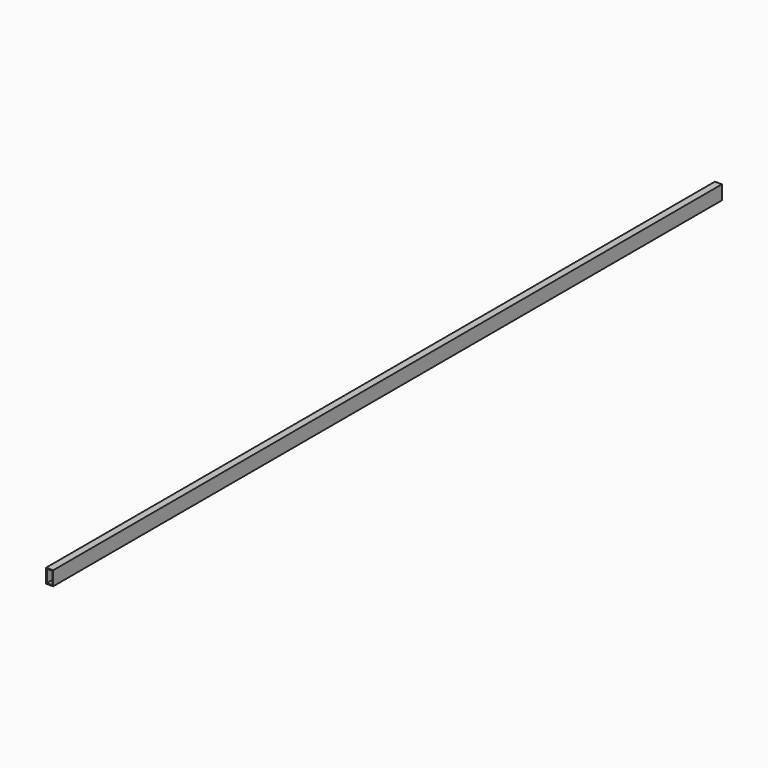
from build123d import *

# Parameters (mm, degrees)
F0_W     = 50.8
F0_H     = 101.6
F0_W_2   = 38.1
F0_H_2   = 88.9
F1_DEPTH = 6000


with BuildPart() as f1:
    # F0 (on Front) → F1 (new body)
    with BuildSketch(Plane.XZ):
        with Locations((25.4, 50.8)):
            Rectangle(F0_W, F0_H)
        with Locations((25.4, 50.8)):
            Rectangle(F0_W_2, F0_H_2, mode=Mode.SUBTRACT)
    extrude(amount=-F1_DEPTH)


solid = f1.part
